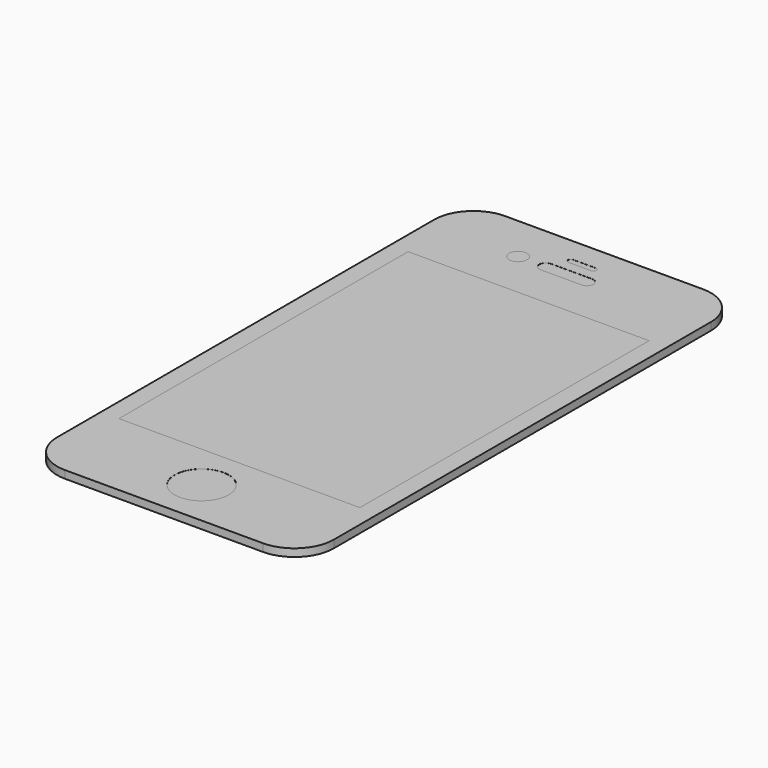
from build123d import *

# Parameters (mm, degrees)
F0_R     = 5.6
F0_W     = 49.92
F0_H     = 74.88
F0_R_2   = 1.84
F1_DEPTH = 1.59
F2_DEPTH = 1.59
F3_DEPTH = 1.57
F4_DEPTH = 1.59
F5_DEPTH = 1.57


with BuildPart() as f1:
    # F0 (on Top) → F1 (new body)
    with BuildSketch(Plane.XY):
        with BuildLine():
            Line((20.505, 56.975), (-20.505, 56.975))
            ThreePointArc((-20.505, 56.975), (-26.282062, 54.582062), (-28.675, 48.805))
            Line((-28.675, 48.805), (-28.675, -48.805))
            ThreePointArc((-28.675, -48.805), (-26.282062, -54.582062), (-20.505, -56.975))
            Line((-20.505, -56.975), (20.505, -56.975))
            ThreePointArc((20.505, -56.975), (26.282062, -54.582062), (28.675, -48.805))
            Line((28.675, -48.805), (28.675, 48.805))
            ThreePointArc((28.675, 48.805), (26.282062, 54.582062), (20.505, 56.975))
        make_face()
        with Locations((0, -47.215)):
            Circle(F0_R, mode=Mode.SUBTRACT)
        Rectangle(F0_W, F0_H, mode=Mode.SUBTRACT)
        with Locations((-10.005, 47.225)):
            Circle(F0_R_2, mode=Mode.SUBTRACT)
        with BuildLine():
            ThreePointArc((5.6, 47.225), (5.204594, 46.270406), (4.25, 45.875))
            Line((4.25, 45.875), (-4.25, 45.875))
            ThreePointArc((-4.25, 45.875), (-5.204594, 46.270406), (-5.6, 47.225))
            ThreePointArc((-5.6, 47.225), (-5.204594, 48.179594), (-4.25, 48.575))
            Line((-4.25, 48.575), (4.25, 48.575))
            ThreePointArc((4.25, 48.575), (5.204594, 48.179594), (5.6, 47.225))
        make_face(mode=Mode.SUBTRACT)
        with BuildLine():
            ThreePointArc((-2.93, 51.325), (-2.754264, 51.749264), (-2.33, 51.925))
            Line((-2.33, 51.925), (2.33, 51.925))
            ThreePointArc((2.33, 51.925), (2.754264, 51.749264), (2.93, 51.325))
            ThreePointArc((2.93, 51.325), (2.754264, 50.900736), (2.33, 50.725))
            Line((2.33, 50.725), (-2.33, 50.725))
            ThreePointArc((-2.33, 50.725), (-2.754264, 50.900736), (-2.93, 51.325))
        make_face(mode=Mode.SUBTRACT)
    extrude(amount=F1_DEPTH)


with BuildPart() as f2:
    # F0 (on Top) → F2 (new body)
    with BuildSketch(Plane.XY):
        Rectangle(F0_W, F0_H)
    extrude(amount=F2_DEPTH)


with BuildPart() as f3:
    # F0 (on Top) → F3 (new body)
    with BuildSketch(Plane.XY):
        with BuildLine():
            Line((-4.25, 45.875), (4.25, 45.875))
            ThreePointArc((4.25, 45.875), (5.204594, 46.270406), (5.6, 47.225))
            ThreePointArc((5.6, 47.225), (5.204594, 48.179594), (4.25, 48.575))
            Line((4.25, 48.575), (-4.25, 48.575))
            ThreePointArc((-4.25, 48.575), (-5.204594, 48.179594), (-5.6, 47.225))
            ThreePointArc((-5.6, 47.225), (-5.204594, 46.270406), (-4.25, 45.875))
        make_face()
        with BuildLine():
            Line((2.33, 51.925), (-2.33, 51.925))
            ThreePointArc((-2.33, 51.925), (-2.754264, 51.749264), (-2.93, 51.325))
            ThreePointArc((-2.93, 51.325), (-2.754264, 50.900736), (-2.33, 50.725))
            Line((-2.33, 50.725), (2.33, 50.725))
            ThreePointArc((2.33, 50.725), (2.754264, 50.900736), (2.93, 51.325))
            ThreePointArc((2.93, 51.325), (2.754264, 51.749264), (2.33, 51.925))
        make_face()
    extrude(amount=F3_DEPTH)


with BuildPart() as f4:
    # F0 (on Top) → F4 (new body)
    with BuildSketch(Plane.XY):
        with Locations((-10.005, 47.225)):
            Circle(F0_R_2)
    extrude(amount=F4_DEPTH)


with BuildPart() as f5:
    # F0 (on Top) → F5 (new body)
    with BuildSketch(Plane.XY):
        with Locations((0, -47.215)):
            Circle(F0_R)
    extrude(amount=F5_DEPTH)


solid = Compound([f1.part, f2.part, f3.part, f4.part, f5.part])
